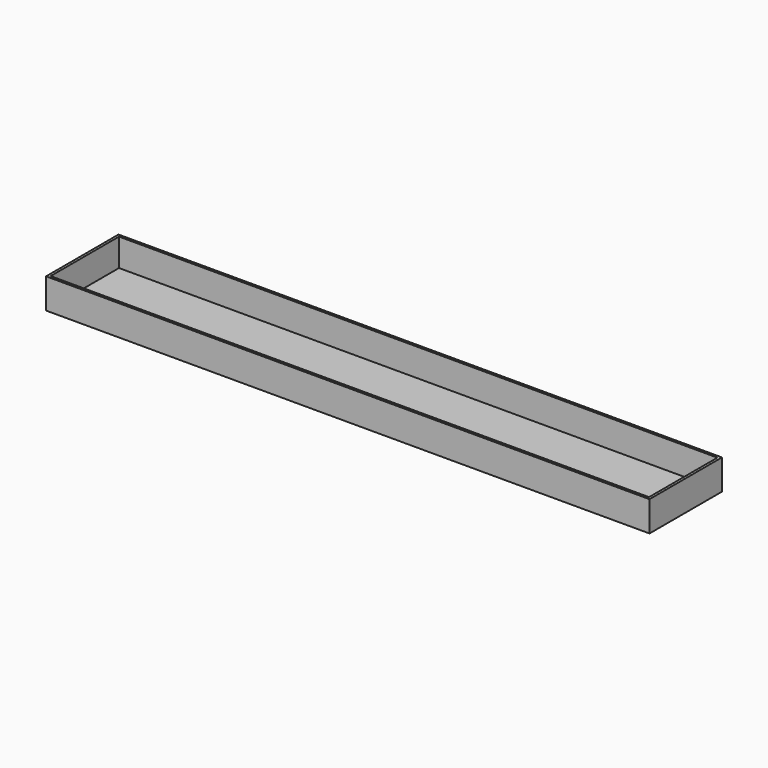
from build123d import *

# Parameters (mm, degrees)
F0_W     = 1524
F0_H     = 228.6
F1_DEPTH = 38.1
F2_T     = -6.35


with BuildPart() as f1:
    # F0 (on Top) → F1 (new body, symmetric)
    with BuildSketch(Plane.XY):
        Rectangle(F0_W, F0_H)
    extrude(amount=F1_DEPTH, both=True)

    # F2
    f2_openings = [f1.faces().sort_by_distance(p)[0] for p in [
        (0, 0, 38.1),
    ]]
    offset(amount=F2_T, openings=f2_openings)


solid = f1.part
